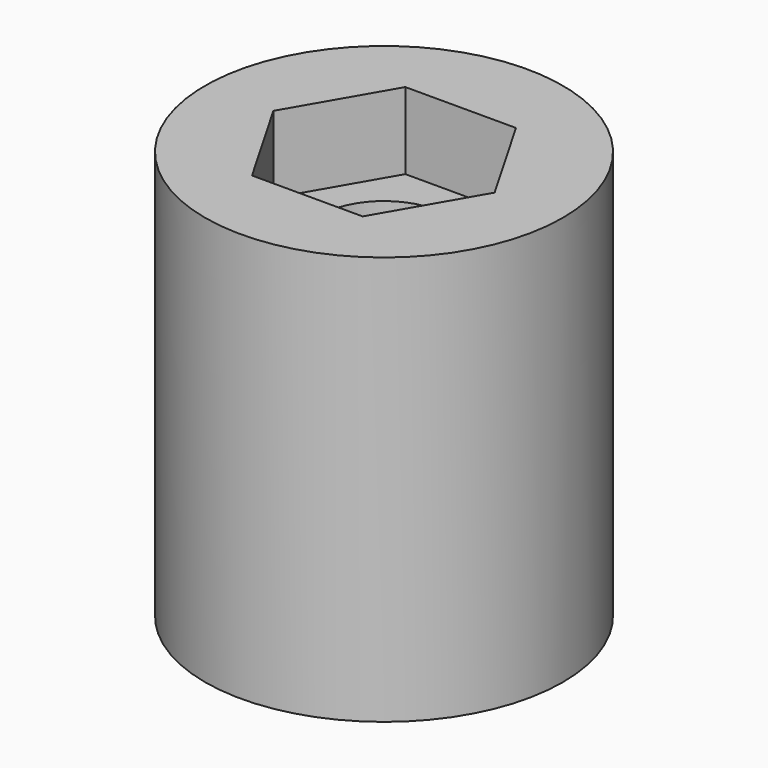
from build123d import *

# Parameters (mm, degrees)
SKETCH_R      = 7
PAD_DEPTH     = 16
SKETCH001_R   = 7
SKETCH001_R_2 = 2.5
PAD001_DEPTH  = 13


with BuildPart() as part:
    # Sketch → Pad (new body)
    with BuildSketch(Plane.XY):
        Circle(SKETCH_R)
        Polygon((4.330127, 0), (2.165064, 3.75), (-2.165064, 3.75), (-4.330127, 0), (-2.165064, -3.75), (2.165064, -3.75), align=None, mode=Mode.SUBTRACT)
    extrude(amount=PAD_DEPTH)

    # Sketch001 → Pad001 (join)
    with BuildSketch(Plane.XY):
        Circle(SKETCH001_R)
        Circle(SKETCH001_R_2, mode=Mode.SUBTRACT)
    extrude(amount=PAD001_DEPTH)


solid = part.part
